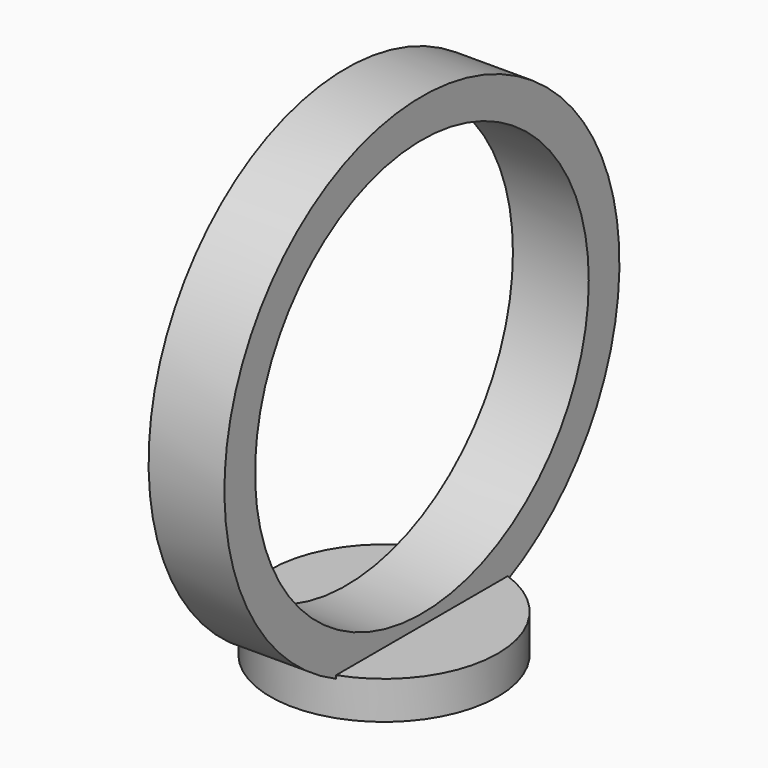
from build123d import *

# Parameters (mm, degrees)
F0_R     = 15
F2_DEPTH = 5
F1_R     = 32.552162
F1_R_2   = 27.5
F3_DEPTH = 5


with BuildPart() as f2:
    # F0 (on Top) → F2 (new body)
    with BuildSketch(Plane.XY):
        Circle(F0_R)
    extrude(amount=-F2_DEPTH)

    # F1 (on Right) → F3 (join, symmetric)
    with BuildSketch(Plane.YZ):
        with Locations((0, 28.890193)):
            Circle(F1_R)
        with Locations((0, 28.890193)):
            Circle(F1_R_2, mode=Mode.SUBTRACT)
    extrude(amount=F3_DEPTH, both=True)


solid = f2.part
